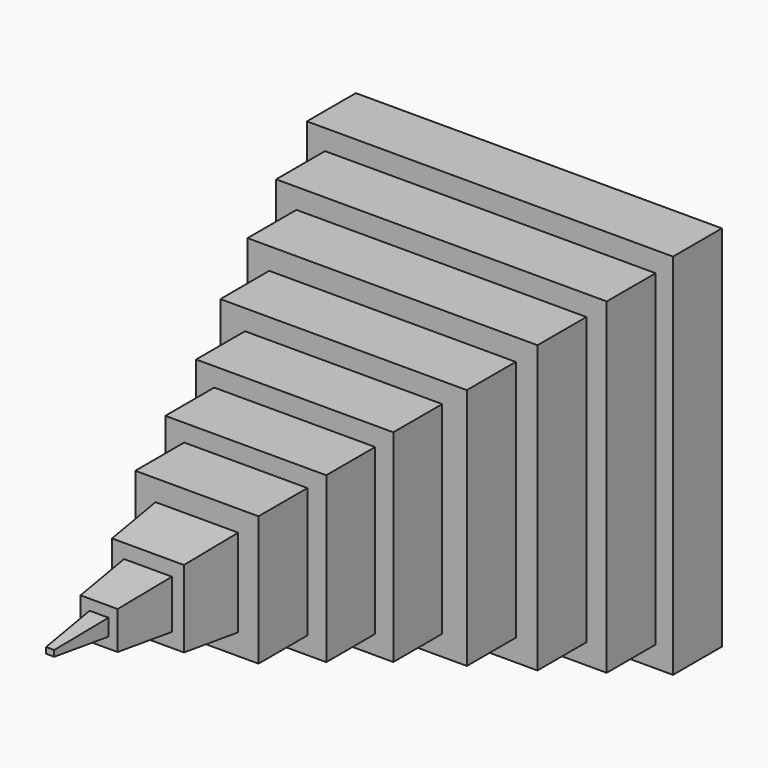
from build123d import *

# Parameters (mm, degrees)
F0_W      = 152.0995497704
F0_H      = 153.0030965805
F1_DEPTH  = 25.4
F2_W      = 137.3413652182
F2_H      = 135.8354389668
F3_DEPTH  = 25.4
F4_W      = 120.4748898745
F4_H      = 118.9689487219
F5_DEPTH  = 25.4
F6_W      = 102.4036556482
F6_H      = 100.8977144957
F7_DEPTH  = 25.4
F8_W      = 81.9229260087
F8_H      = 84.0312317014
F9_DEPTH  = 25.4
F10_W     = 66.863566637
F10_H     = 68.3694928885
F11_DEPTH = 25.4
F12_W     = 51.2018278241
F12_H     = 53.9125055075
F13_DEPTH = 25.4
F14_W     = 34.3353450298
F14_H     = 36.4436469972
F15_DEPTH = 25.4
F15_TAPER = 5
F16_W     = 19.8783595115
F16_H     = 20.1795380563
F17_DEPTH = 25.4
F17_TAPER = 5
F18_W     = 7.8308703378
F18_H     = 6.9273011759
F19_DEPTH = 25.4
F19_TAPER = 5


with BuildPart() as f1:
    # F0 (on Front) → F1 (new body)
    with BuildSketch(Plane.XZ):
        with Locations((-0.150591135, -0.150591135)):
            Rectangle(F0_W, F0_H)
    extrude(amount=F1_DEPTH)

    # F2 (on face) → F3 (join)
    with BuildSketch(Plane.XZ.offset(25.4)):
        Rectangle(F2_W, F2_H)
    extrude(amount=F3_DEPTH)

    # F4 (on face) → F5 (join)
    with BuildSketch(Plane.XZ.offset(50.8)):
        Rectangle(F4_W, F4_H)
    extrude(amount=F5_DEPTH)

    # F6 (on face) → F7 (join)
    with BuildSketch(Plane.XZ.offset(76.2)):
        Rectangle(F6_W, F6_H)
    extrude(amount=F7_DEPTH)

    # F8 (on face) → F9 (join)
    with BuildSketch(Plane.XZ.offset(101.6)):
        Rectangle(F8_W, F8_H)
    extrude(amount=F9_DEPTH)

    # F10 (on face) → F11 (join)
    with BuildSketch(Plane.XZ.offset(127)):
        Rectangle(F10_W, F10_H)
    extrude(amount=F11_DEPTH)

    # F12 (on face) → F13 (join)
    with BuildSketch(Plane.XZ.offset(152.4)):
        Rectangle(F12_W, F12_H)
    extrude(amount=F13_DEPTH)

    # F14 (on face) → F15 (join)
    with BuildSketch(Plane.XZ.offset(177.8)):
        Rectangle(F14_W, F14_H)
    extrude(amount=F15_DEPTH, taper=F15_TAPER)

    # F16 (on face) → F17 (join)
    with BuildSketch(Plane.XZ.offset(203.2)):
        Rectangle(F16_W, F16_H)
    extrude(amount=F17_DEPTH, taper=F17_TAPER)

    # F18 (on face) → F19 (join)
    with BuildSketch(Plane.XZ.offset(228.6)):
        Rectangle(F18_W, F18_H)
    extrude(amount=F19_DEPTH, taper=F19_TAPER)


solid = f1.part
